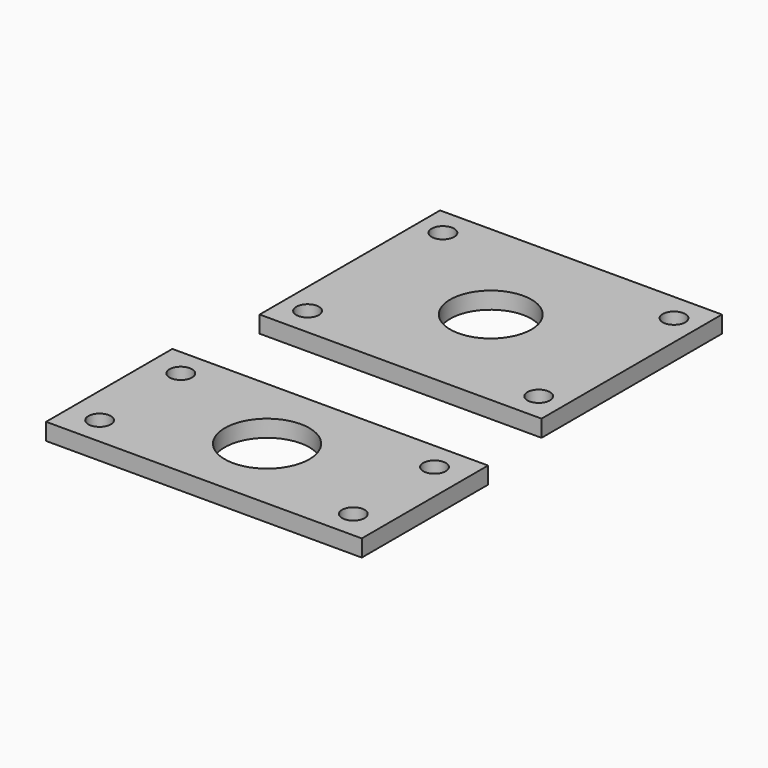
from build123d import *

# Parameters (mm, degrees)
F0_W     = 25
F0_H     = 20
F0_R     = 1
F0_R_2   = 3.6
F1_DEPTH = 1.5
F2_W     = 28
F2_H     = 14
F2_R     = 1
F2_R_2   = 3.75
F3_DEPTH = 1.5


with BuildPart() as f1:
    # F0 (on Top) → F1 (new body)
    with BuildSketch(Plane.XY):
        Rectangle(F0_W, F0_H)
        with Locations((-10.25, -7.5)):
            Circle(F0_R, mode=Mode.SUBTRACT)
        with Locations((10.25, -7.5)):
            Circle(F0_R, mode=Mode.SUBTRACT)
        with Locations((-10.25, 7.5)):
            Circle(F0_R, mode=Mode.SUBTRACT)
        Circle(F0_R_2, mode=Mode.SUBTRACT)
        with Locations((10.25, 7.5)):
            Circle(F0_R, mode=Mode.SUBTRACT)
    extrude(amount=F1_DEPTH)


with BuildPart() as f3:
    # F2 (on Top) → F3 (new body)
    with BuildSketch(Plane.XY):
        with Locations((0, -24.804085)):
            Rectangle(F2_W, F2_H)
        with Locations((-11.25, -29.304085)):
            Circle(F2_R, mode=Mode.SUBTRACT)
        with Locations((11.25, -29.304085)):
            Circle(F2_R, mode=Mode.SUBTRACT)
        with Locations((-11.25, -20.304085)):
            Circle(F2_R, mode=Mode.SUBTRACT)
        with Locations((0, -24.804085)):
            Circle(F2_R_2, mode=Mode.SUBTRACT)
        with Locations((11.25, -20.304085)):
            Circle(F2_R, mode=Mode.SUBTRACT)
    extrude(amount=F3_DEPTH)


solid = Compound([f1.part, f3.part])
